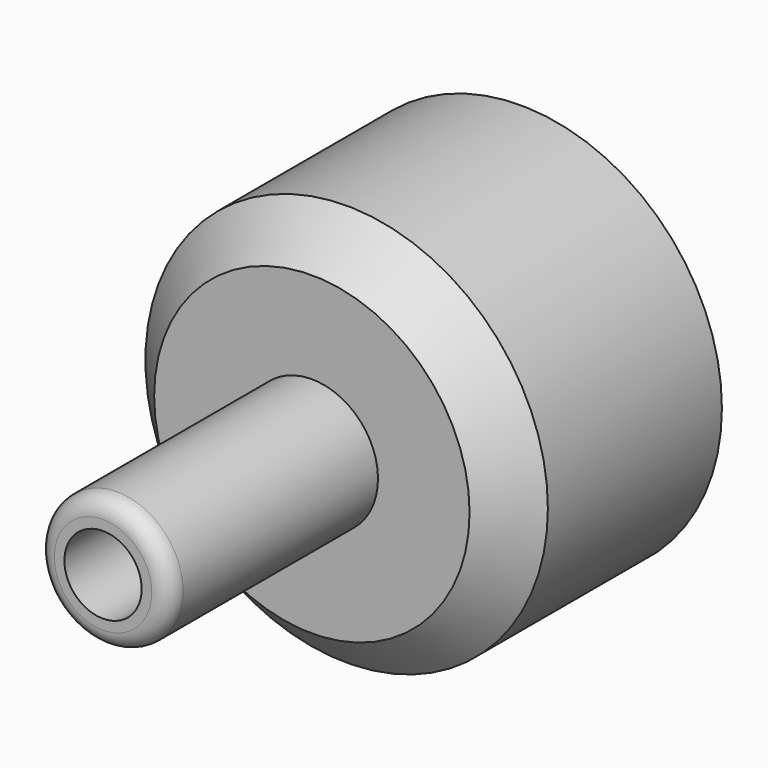
from build123d import *

# Parameters (mm, degrees)
F0_R      = 58.7395
F2_DEPTH  = 76.2
F3_R      = 19.30494
F4_DEPTH  = 76.2
F6_R      = 9.692855
F7_DEPTH  = 76.2
F5_R      = 9.656386
F8_DEPTH  = 127
F9_R      = 11.274603
F10_DEPTH = 127
F11_R     = 5.08
F12_SIZE  = 12.7


with BuildPart() as f2:
    # F0 (on Front) → F2 (new body)
    with BuildSketch(Plane.XZ):
        Circle(F0_R)
    extrude(amount=F2_DEPTH)

    # F3 (on face) → F4 (join)
    with BuildSketch(Plane.XZ.offset(76.2)):
        Circle(F3_R)
    extrude(amount=F4_DEPTH)

    # F6 (on Front) → F7 (cut)
    with BuildSketch(Plane.XZ):
        Circle(F6_R)
    extrude(amount=-F7_DEPTH, mode=Mode.SUBTRACT)

    # F5 (on Front) → F8 (cut)
    with BuildSketch(Plane.XZ):
        Circle(F5_R)
    extrude(amount=-F8_DEPTH, mode=Mode.SUBTRACT)

    # F9 (on face) → F10 (cut)
    with BuildSketch(Plane.XZ.offset(152.4)):
        Circle(F9_R)
    extrude(amount=-F10_DEPTH, mode=Mode.SUBTRACT)

    # F11
    f11_edges = [f2.edges().sort_by_distance(p)[0] for p in [
        (-19.30494, -152.4, 0),
    ]]
    fillet(f11_edges, radius=F11_R)

    # F12
    f12_edges = [f2.edges().sort_by_distance(p)[0] for p in [
        (-58.7395, -76.2, 0),
    ]]
    chamfer(f12_edges, length=F12_SIZE)


solid = f2.part
